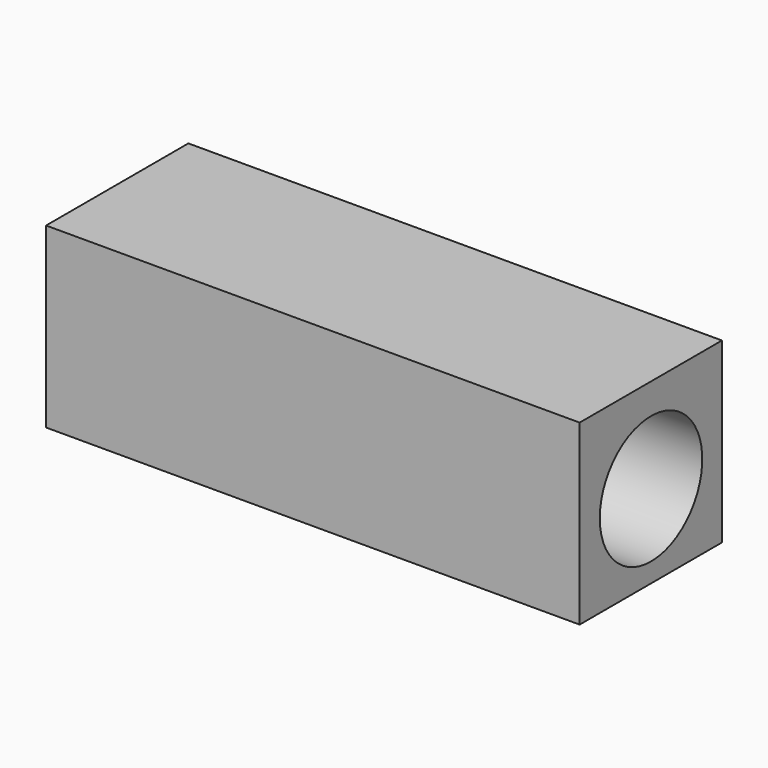
from build123d import *

# Parameters (mm, degrees)
F0_W     = 75
F0_H     = 25
F1_DEPTH = 25
F3_D     = 18
F3_DEPTH = 70
F3_TIP   = 5.4077455712


with BuildPart() as f1:
    # F0 (on Front) → F1 (new body)
    with BuildSketch(Plane.XZ):
        with Locations((18.8609485001, 12.5)):
            Rectangle(F0_W, F0_H)
    extrude(amount=F1_DEPTH)

    # F3
    with Locations(Plane.YZ.offset(56.3609485001)):
        with Locations((-12.4576278031, 11.7161022499)):
            Hole(F3_D / 2, depth=F3_DEPTH)
            with Locations((0, 0, -(F3_DEPTH + F3_TIP / 2))):  # 118° drill point
                Cone(0, F3_D / 2, F3_TIP, mode=Mode.SUBTRACT)


solid = f1.part
